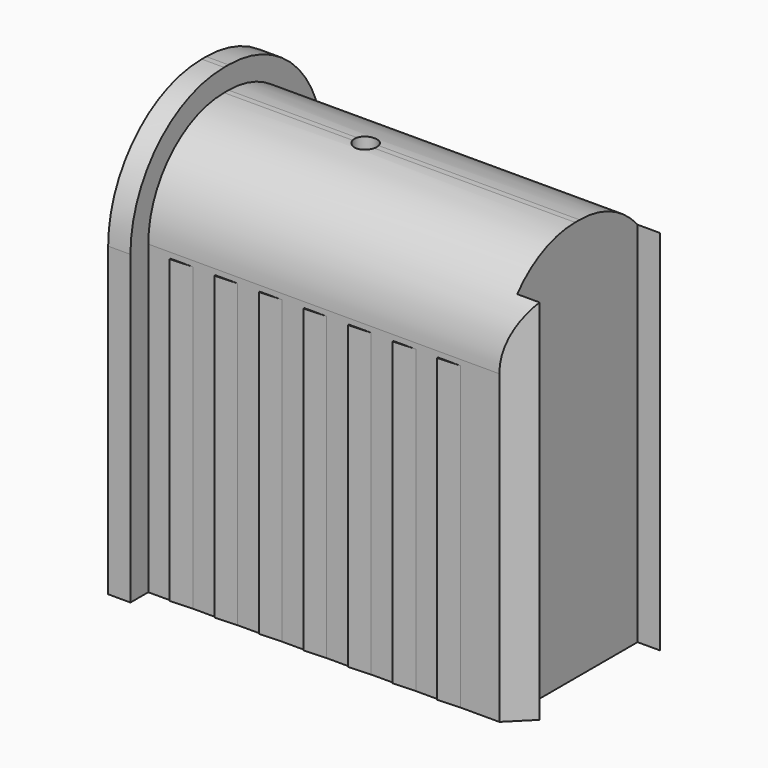
from build123d import *

# Parameters (mm, degrees)
F1_DEPTH = 35.5
F2_DEPTH = 2
F3_DEPTH = 33.5
F4_R     = 5.25
F4_R_2   = 1
F5_DEPTH = 25
F6_DEPTH = 36
F7_DEPTH = 32.9782255751
F8_DEPTH = 27


with BuildPart() as f1:
    # F0 (on Right) → F1 (new body)
    with BuildSketch(Plane.YZ):
        with BuildLine():
            Line((49.4756655051, -63.7959514514), (51.4756655051, -63.7959514514))
            Line((51.4756655051, -63.7959514514), (51.4756655051, -36.2959514514))
            ThreePointArc((51.4756655051, -36.2959514514), (50.9600252165, -33.3804755039), (49.4756655051, -30.8187258763))
            Line((49.4756655051, -30.8187258763), (49.4756655051, -63.7959514514))
        make_face()
        with BuildLine():
            Line((49.4756655051, -63.7959514514), (51.4756655051, -63.7959514514))
            Line((51.4756655051, -63.7959514514), (51.4756655051, -36.2959514514))
            ThreePointArc((51.4756655051, -36.2959514514), (50.9600252165, -33.3804755039), (49.4756655051, -30.8187258763))
            Line((49.4756655051, -30.8187258763), (49.4756655051, -63.7959514514))
        make_face()
    extrude(amount=F1_DEPTH)



with BuildPart() as f1b:
    # F0 (on Right) → F1, piece 2 (new body)
    with BuildSketch(Plane.YZ):
        with BuildLine():
            Line((33.9756655051, -63.7959514514), (35.9756655051, -63.7959514514))
            Line((35.9756655051, -63.7959514514), (35.9756655051, -30.8187258763))
            ThreePointArc((35.9756655051, -30.8187258763), (34.4913057938, -33.3804755039), (33.9756655051, -36.2959514514))
            Line((33.9756655051, -36.2959514514), (33.9756655051, -63.7959514514))
        make_face()
    extrude(amount=F1_DEPTH)


with BuildPart() as f1_1:
    add(f1.part)

    add(f1b.part)  # F2 merges F1b
    # F0 (on Right) → F2 (join)
    with BuildSketch(Plane.YZ):
        with BuildLine():
            Line((51.4756655051, -36.2959514514), (51.4756655051, -63.7959514514))
            Line((51.4756655051, -63.7959514514), (53.4756655051, -63.7959514514))
            Line((53.4756655051, -63.7959514514), (53.4756655051, -36.2959514514))
            ThreePointArc((53.4756655051, -36.2959514514), (50.4002867076, -28.8713302489), (42.9756655051, -25.7959514514))
            Line((42.9756655051, -25.7959514514), (42.4756655051, -25.7959514514))
            ThreePointArc((42.4756655051, -25.7959514514), (35.0510443027, -28.8713302489), (31.9756655051, -36.2959514514))
            Line((31.9756655051, -36.2959514514), (31.9756655051, -63.7959514514))
            Line((31.9756655051, -63.7959514514), (33.9756655051, -63.7959514514))
            Line((33.9756655051, -63.7959514514), (33.9756655051, -36.2959514514))
            ThreePointArc((33.9756655051, -36.2959514514), (34.4913057938, -33.3804755039), (35.9756655051, -30.8187258763))
            ThreePointArc((35.9756655051, -30.8187258763), (38.8914234226, -28.5886037432), (42.4756655051, -27.7959514514))
            Line((42.4756655051, -27.7959514514), (42.9756655051, -27.7959514514))
            ThreePointArc((42.9756655051, -27.7959514514), (46.5599075877, -28.5886037432), (49.4756655051, -30.8187258763))
            ThreePointArc((49.4756655051, -30.8187258763), (50.9600252165, -33.3804755039), (51.4756655051, -36.2959514514))
        make_face()
        with BuildLine():
            Line((35.9756655051, -63.7959514514), (49.4756655051, -63.7959514514))
            Line((49.4756655051, -63.7959514514), (49.4756655051, -30.8187258763))
            ThreePointArc((49.4756655051, -30.8187258763), (46.5599075877, -28.5886037432), (42.9756655051, -27.7959514514))
            Line((42.9756655051, -27.7959514514), (42.4756655051, -27.7959514514))
            ThreePointArc((42.4756655051, -27.7959514514), (38.8914234226, -28.5886037432), (35.9756655051, -30.8187258763))
            Line((35.9756655051, -30.8187258763), (35.9756655051, -63.7959514514))
        make_face()
    extrude(amount=F2_DEPTH)

    # F0 (on Right) → F3 (join)
    with BuildSketch(Plane.YZ):
        with BuildLine():
            Line((35.9756655051, -63.7959514514), (49.4756655051, -63.7959514514))
            Line((49.4756655051, -63.7959514514), (49.4756655051, -30.8187258763))
            ThreePointArc((49.4756655051, -30.8187258763), (46.5599075877, -28.5886037432), (42.9756655051, -27.7959514514))
            Line((42.9756655051, -27.7959514514), (42.4756655051, -27.7959514514))
            ThreePointArc((42.4756655051, -27.7959514514), (38.8914234226, -28.5886037432), (35.9756655051, -30.8187258763))
            Line((35.9756655051, -30.8187258763), (35.9756655051, -63.7959514514))
        make_face()
    extrude(amount=F3_DEPTH)

    # F4 (on face) → F5 (cut)
    with BuildSketch(Plane(origin=(0, 0, -63.7959514514), x_dir=(1, 0, 0), z_dir=(0, 0, -1))):
        with Locations((14.5, -42.7256655051)):
            Circle(F4_R)
        with Locations((14.5, -42.7256655051)):
            Circle(F4_R_2, mode=Mode.SUBTRACT)
    extrude(amount=-F5_DEPTH, mode=Mode.SUBTRACT)

    # F6 (cut, through all): a face of the model
    f6_faces = [f1_1.faces().sort_by_distance(p)[0] for p in [
        (14.5, 42.7256655051, -63.7959514514),
    ]]
    extrude(f6_faces, amount=-F6_DEPTH, mode=Mode.SUBTRACT)

    # F4 (on face) → F7 (cut, through all)
    with BuildSketch(Plane(origin=(0, 0, -63.7959514514), x_dir=(1, 0, 0), z_dir=(0, 0, -1))):
        Polygon((35.5, -49.4756655051), (33.5, -51.4756655051), (35.5, -51.4756655051), align=None)
        Polygon((35.5, -33.9756655051), (33.5, -33.9756655051), (35.5, -35.9756655051), align=None)
    extrude(amount=-F7_DEPTH, mode=Mode.SUBTRACT)

    # F4 (on face) → F8 (join)
    with BuildSketch(Plane(origin=(0, 0, -63.7959514514), x_dir=(1, 0, 0), z_dir=(0, 0, -1))):
        Polygon((4, -51.5756655051), (6, -51.4756655051), (4, -51.4756655051), align=None)
        Polygon((8, -51.5756655051), (10, -51.4756655051), (8, -51.4756655051), align=None)
        Polygon((28, -51.5756655051), (30, -51.4756655051), (28, -51.4756655051), align=None)
        Polygon((24, -51.5756655051), (26, -51.4756655051), (24, -51.4756655051), align=None)
        Polygon((20, -51.5756655051), (22, -51.4756655051), (20, -51.4756655051), align=None)
        Polygon((16, -51.5756655051), (18, -51.4756655051), (16, -51.4756655051), align=None)
        Polygon((12, -51.5756655051), (14, -51.4756655051), (12, -51.4756655051), align=None)
        Polygon((28, -33.9756655051), (30, -33.9756655051), (28, -33.8756655051), align=None)
        Polygon((24, -33.9756655051), (26, -33.9756655051), (24, -33.8756655051), align=None)
        Polygon((20, -33.9756655051), (22, -33.9756655051), (20, -33.8756655051), align=None)
        Polygon((16, -33.9756655051), (18, -33.9756655051), (16, -33.8756655051), align=None)
        Polygon((12, -33.9756655051), (14, -33.9756655051), (12, -33.8756655051), align=None)
        Polygon((8, -33.9756655051), (10, -33.9756655051), (8, -33.8756655051), align=None)
        Polygon((4, -33.9756655051), (6, -33.9756655051), (4, -33.8756655051), align=None)
    extrude(amount=-F8_DEPTH)


solid = f1_1.part
